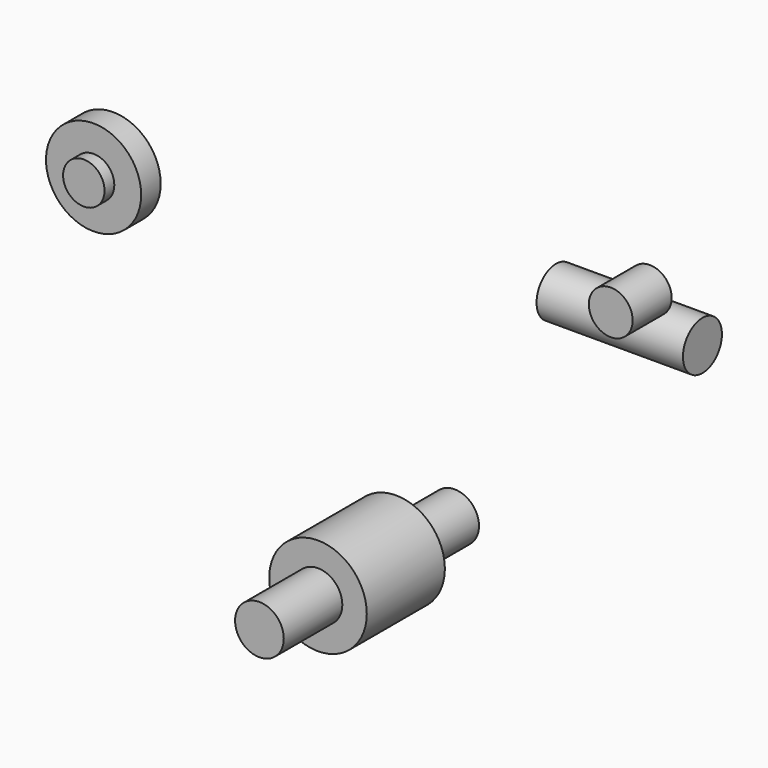
from build123d import *

# Parameters (mm, degrees)
F0_R      = 9.99998
F0_R_2    = 4.98983
F1_DEPTH  = 19.99996
F2_DEPTH  = 15.00124
F3_R      = 4.98983
F4_DEPTH  = 15.00124
F0_R_3    = 4.48945
F5_DEPTH  = 9.99998
F0_R_4    = 9.74979
F0_R_5    = 4.24942
F6_DEPTH  = 5.00126
F7_DEPTH  = 2.49936
F8_R      = 4.24942
F9_DEPTH  = 2.49936
F10_R     = 4.98983
F11_DEPTH = 29.99994


with BuildPart() as f1:
    # F0 (on Front) → F1 (new body)
    with BuildSketch(Plane.XZ):
        Circle(F0_R)
        Circle(F0_R_2, mode=Mode.SUBTRACT)
        Circle(F0_R_2)
    extrude(amount=F1_DEPTH)

    # F0 (on Front) → F2 (join)
    with BuildSketch(Plane.XZ):
        Circle(F0_R_2)
    extrude(amount=-F2_DEPTH)

    # F3 (on face) → F4 (join)
    with BuildSketch(Plane.XZ.offset(19.99996)):
        Circle(F3_R)
    extrude(amount=F4_DEPTH)


with BuildPart() as f5:
    # F0 (on Front) → F5 (new body)
    with BuildSketch(Plane.XZ):
        with Locations((51.9903, 63.975602)):
            Circle(F0_R_3)
    extrude(amount=F5_DEPTH)


with BuildPart() as f6:
    # F0 (on Front) → F6 (new body)
    with BuildSketch(Plane.XZ):
        with Locations((-57.982963, 50.532632)):
            Circle(F0_R_4)
        with Locations((-57.982963, 50.532632)):
            Circle(F0_R_5, mode=Mode.SUBTRACT)
        with Locations((-57.982963, 50.532632)):
            Circle(F0_R_5)
    extrude(amount=F6_DEPTH)

    # F0 (on Front) → F7 (join)
    with BuildSketch(Plane.XZ):
        with Locations((-57.982963, 50.532632)):
            Circle(F0_R_5)
    extrude(amount=-F7_DEPTH)

    # F8 (on face) → F9 (join)
    with BuildSketch(Plane.XZ.offset(5.00126)):
        with Locations((-57.982963, 50.532632)):
            Circle(F8_R)
    extrude(amount=F9_DEPTH)


with BuildPart() as f11:
    # F10 (on Right) → F11 (new body)
    with BuildSketch(Plane.YZ):
        with Locations((40.976781, 30.125223)):
            Circle(F10_R)
    extrude(amount=F11_DEPTH)


solid = Compound([f1.part, f5.part, f6.part, f11.part])
